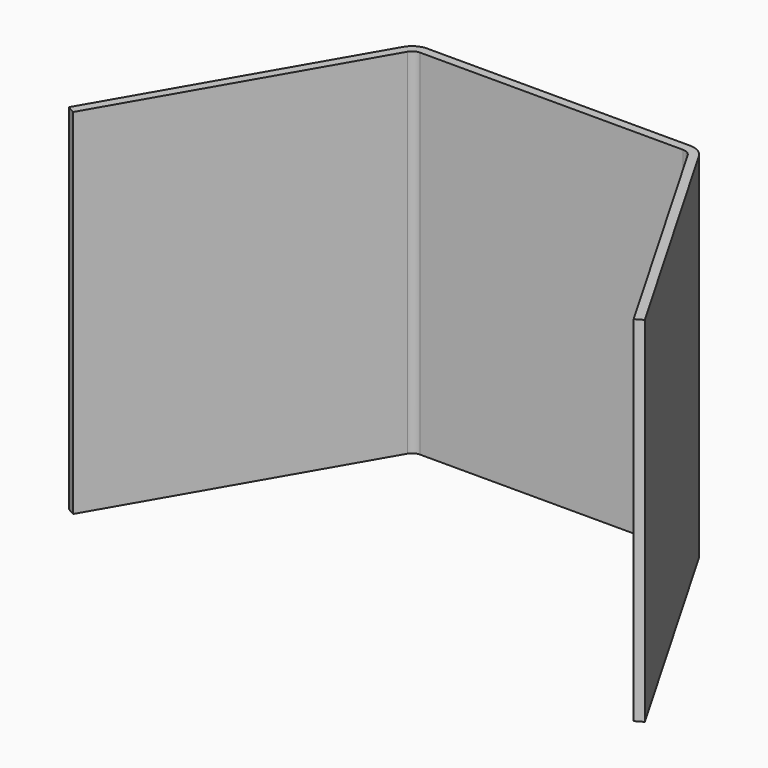
from build123d import *

# Parameters (mm, degrees)
F1_DEPTH = 80


with BuildPart() as f1:
    # F0 (on Top) → F1 (new body)
    with BuildSketch(Plane.XY):
        with BuildLine():
            ThreePointArc((-33.671542, 20.483526), (-32.829683, 21.325384), (-31.679683, 21.633526))
            Line((-31.679683, 21.633526), (27.720317, 21.633526))
            ThreePointArc((27.720317, 21.633526), (28.870317, 21.325384), (29.712175, 20.483526))
            Line((29.712175, 20.483526), (61.387175, -34.379184))
            Line((61.387175, -34.379184), (63.119226, -33.379184))
            Line((63.119226, -33.379184), (31.444226, 21.483526))
            ThreePointArc((31.444226, 21.483526), (29.870317, 23.057435), (27.720317, 23.633526))
            Line((27.720317, 23.633526), (-31.679683, 23.633526))
            ThreePointArc((-31.679683, 23.633526), (-33.829683, 23.057435), (-35.403592, 21.483526))
            Line((-35.403592, 21.483526), (-67.078592, -33.379184))
            Line((-67.078592, -33.379184), (-65.346542, -34.379184))
            Line((-65.346542, -34.379184), (-33.671542, 20.483526))
        make_face()
    extrude(amount=F1_DEPTH)


solid = f1.part
